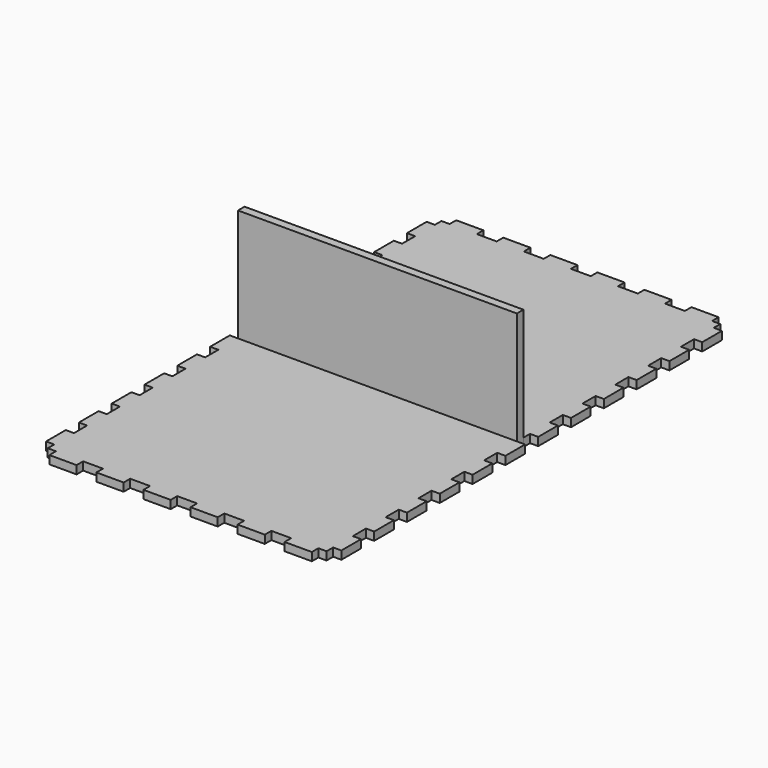
from build123d import *

# Parameters (mm, degrees)
F2_DEPTH = 5
F3_W     = 170
F3_H     = 73.6674442887
F4_DEPTH = 5


with BuildPart() as f2:
    # F1 (on Top) → F2 (new body)
    with BuildSketch(Plane.XY):
        Polygon((-85, -145), (-85, -150), (-80, -150), (-80, -155), (-63.4081140161, -155), (-63.4081140161, -150), (-51.3183771968, -150), (-51.3183771968, -155), (-34.7264912128, -155), (-34.7264912128, -150), (-22.6367543936, -150), (-22.6367543936, -155), (-6.0448684096, -155), (-6.0448684096, -150), (6.0448684096, -150), (6.0448684096, -155), (22.6367543936, -155), (22.6367543936, -150), (34.7264912128, -150), (34.7264912128, -155), (51.3183771968, -155), (51.3183771968, -150), (63.4081140161, -150), (63.4081140161, -155), (80, -155), (80, -150), (85, -150), (85, -145), (90, -145), (90, -130), (85, -130), (85, -120), (90, -120), (90, -105), (85, -105), (85, -95), (90, -95), (90, -80), (85, -80), (85, -70), (90, -70), (90, -55), (85, -55), (85, -45), (90, -45), (90, -30), (85, -30), (85, -20), (90, -20), (90, -5), (85, -5), (85, 5), (90, 5), (90, 20), (85, 20), (85, 30), (90, 30), (90, 45), (85, 45), (85, 55), (90, 55), (90, 70), (85, 70), (85, 80), (90, 80), (90, 95), (85, 95), (85, 105), (90, 105), (90, 120), (85, 120), (85, 130), (90, 130), (90, 145), (85, 145), (85, 150), (80, 150), (80, 155), (63.4081140161, 155), (63.4081140161, 150), (51.3183771968, 150), (51.3183771968, 155), (34.7264912128, 155), (34.7264912128, 150), (22.6367543936, 150), (22.6367543936, 155), (6.0448684096, 155), (6.0448684096, 150), (-6.0448684096, 150), (-6.0448684096, 155), (-22.6367543936, 155), (-22.6367543936, 150), (-34.7264912128, 150), (-34.7264912128, 155), (-51.3183771968, 155), (-51.3183771968, 150), (-63.4081140161, 150), (-63.4081140161, 155), (-80, 155), (-80, 150), (-85, 150), (-85, 145), (-90, 145), (-90, 130), (-85, 130), (-85, 120), (-90, 120), (-90, 105), (-85, 105), (-85, 95), (-90, 95), (-90, 80), (-85, 80), (-85, 70), (-90, 70), (-90, 55), (-85, 55), (-85, 45), (-90, 45), (-90, 30), (-85, 30), (-85, 20), (-90, 20), (-90, 5), (-85, 5), (-85, -5), (-90, -5), (-90, -20), (-85, -20), (-85, -30), (-90, -30), (-90, -45), (-85, -45), (-85, -55), (-90, -55), (-90, -70), (-85, -70), (-85, -80), (-90, -80), (-90, -95), (-85, -95), (-85, -105), (-90, -105), (-90, -120), (-85, -120), (-85, -130), (-90, -130), (-90, -145), align=None)
    extrude(amount=F2_DEPTH)


with BuildPart() as f4:
    # F3 (on Front) → F4 (new body)
    with BuildSketch(Plane.XZ):
        with Locations((0, 36.8337221444)):
            Rectangle(F3_W, F3_H)
    extrude(amount=F4_DEPTH)


solid = Compound([f2.part, f4.part])
